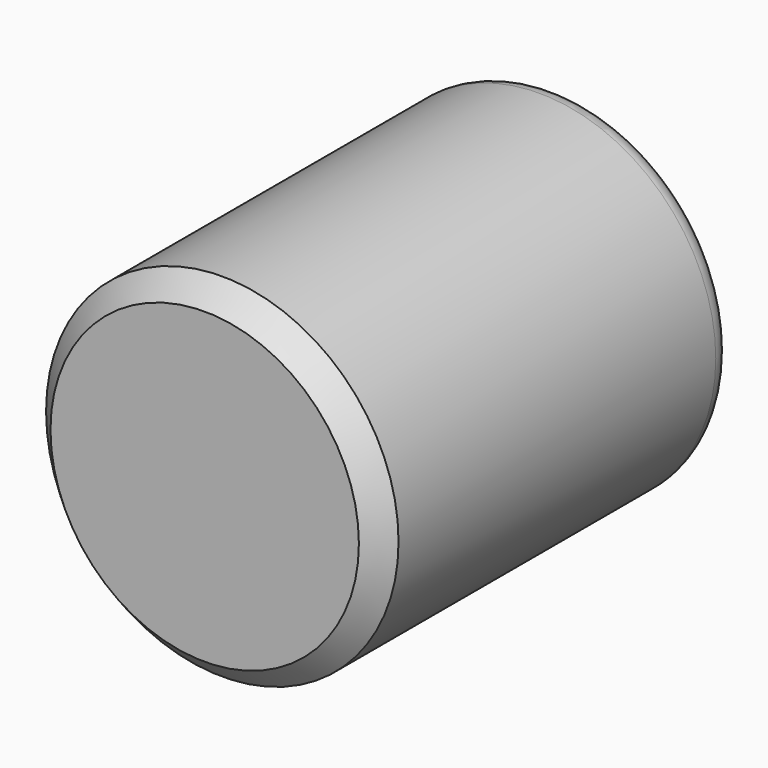
from build123d import *

# Parameters (mm, degrees)
F0_R     = 4
F1_DEPTH = 10
F2_SIZE  = 0.5
F3_R     = 2.75
F4_DEPTH = 6
F5_R     = 0.5


with BuildPart() as f1:
    # F0 (on Front) → F1 (new body)
    with BuildSketch(Plane.XZ):
        Circle(F0_R)
    extrude(amount=F1_DEPTH)

    # F2
    f2_edges = [f1.edges().sort_by_distance(p)[0] for p in [
        (-4, -10, 0),
    ]]
    chamfer(f2_edges, length=F2_SIZE)

    # F3 (on face) → F4 (cut)
    with BuildSketch(Plane(origin=(0, 0, 0), x_dir=(-1, 0, 0), z_dir=(0, 1, 0))):
        Circle(F3_R)
    extrude(amount=-F4_DEPTH, mode=Mode.SUBTRACT)

    # F5
    f5_edges = [f1.edges().sort_by_distance(p)[0] for p in [
        (-4, 0, 0),
    ]]
    fillet(f5_edges, radius=F5_R)


solid = f1.part
